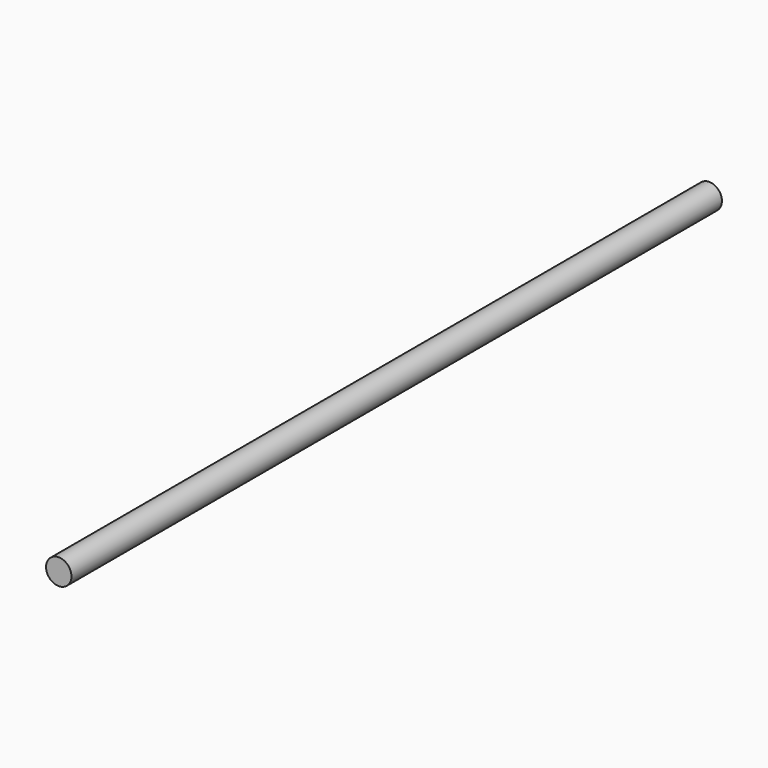
from build123d import *

# Parameters (mm, degrees)
F0_R     = 1.5875
F1_DEPTH = 63.5
F2_DEPTH = 38.1


with BuildPart() as f1:
    # F0 (on Front) → F1 (new body)
    with BuildSketch(Plane.XZ):
        Circle(F0_R)
    extrude(amount=F1_DEPTH)

    # F0 (on Front) → F2 (join)
    with BuildSketch(Plane.XZ):
        Circle(F0_R)
    extrude(amount=-F2_DEPTH)


solid = f1.part
